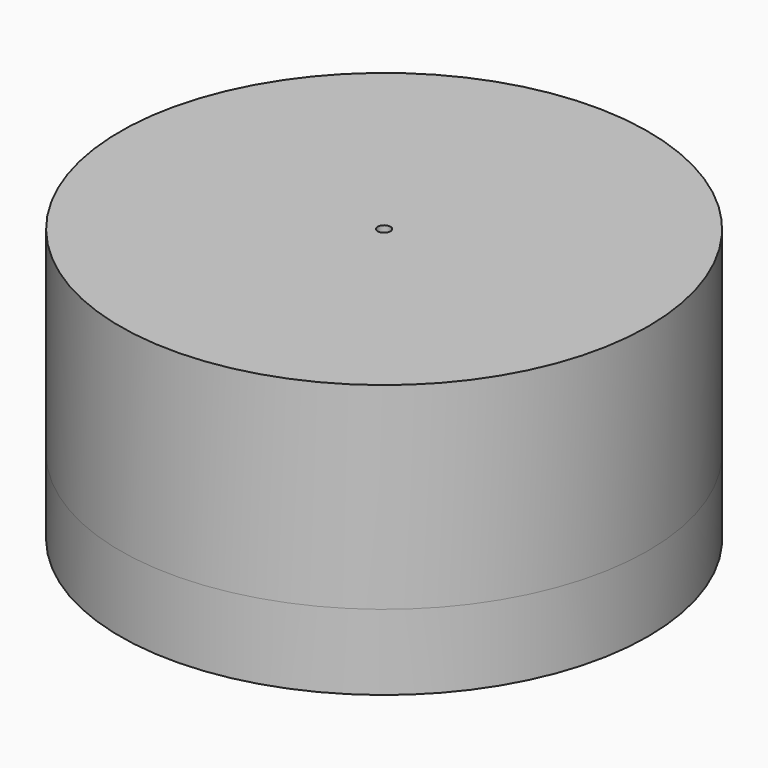
from build123d import *

# Parameters (mm, degrees)
F2_DEPTH = 14
F0_W     = 10
F0_H     = 5


with BuildPart() as f1:
    # F0 (on Front) → F1 (revolve)
    with BuildSketch(Plane.XZ):
        with BuildLine():
            Line((0, 40.6699131573), (0, 33.1678688383))
            ThreePointArc((0, 33.1678688383), (2.6523732054, 34.2665177924), (3.7510221595, 36.9188909978))
            ThreePointArc((3.7510221595, 36.9188909978), (2.6523732054, 39.5712642031), (0, 40.6699131573))
        make_face()
        with BuildLine():
            Line((0, 33.1678688383), (0, 30))
            Line((0, 30), (10, 30))
            Line((10, 30), (13, 13.8075612485))
            Line((13, 13.8075612485), (14, 13.8075612485))
            Line((14, 13.8075612485), (14, 43.8377819955))
            Line((14, 43.8377819955), (0, 43.8377819955))
            Line((0, 43.8377819955), (0, 40.6699131573))
            ThreePointArc((0, 40.6699131573), (2.6523732054, 39.5712642031), (3.7510221595, 36.9188909978))
            ThreePointArc((3.7510221595, 36.9188909978), (2.6523732054, 34.2665177924), (0, 33.1678688383))
        make_face()
    revolve(axis=Axis((0, 0, 15), (0, 0, 1)))

    # F0 (on Front) → F2 (cut, symmetric)
    with BuildSketch(Plane.XZ):
        with BuildLine():
            ThreePointArc((0, 40.6699131573), (-3.7510221595, 36.9188909978), (0, 33.1678688383))
            Line((0, 33.1678688383), (0, 40.6699131573))
        make_face()
        with BuildLine():
            Line((0, 40.6699131573), (0, 33.1678688383))
            ThreePointArc((0, 33.1678688383), (2.6523732054, 34.2665177924), (3.7510221595, 36.9188909978))
            ThreePointArc((3.7510221595, 36.9188909978), (2.6523732054, 39.5712642031), (0, 40.6699131573))
        make_face()
    extrude(amount=F2_DEPTH, both=True, mode=Mode.SUBTRACT)


with BuildPart() as f3:
    # F0 (on Front) → F3 (revolve)
    with BuildSketch(Plane.XZ):
        with BuildLine():
            ThreePointArc((11.4644660941, 0), (13.9644660941, 1.0355339059), (15, 3.5355339059))
            ThreePointArc((15, 3.5355339059), (8.9644660941, 6.0355339059), (11.4644660941, 0))
        make_face()
    revolve(axis=Axis((0, 0, 15), (0, 0, 1)))


with BuildPart() as f4:
    # F0 (on Front) → F4 (revolve)
    with BuildSketch(Plane.XZ):
        with BuildLine():
            Line((10, 30), (0, 30))
            Line((0, 30), (0, 25))
            Line((0, 25), (7.5, 25))
            ThreePointArc((7.5, 25), (9.267766953, 25.732233047), (10, 27.5))
            Line((10, 27.5), (10, 30))
        make_face()
    revolve(axis=Axis((0, 0, 15), (0, 0, 1)))


with BuildPart() as f5:
    # F0 (on Front) → F5 (revolve)
    with BuildSketch(Plane.XZ):
        Polygon((15, 7.1290568449), (15, 3.5355339059), (15, 0), (70, 0), (70, 52.3596480489), (1.6814888222, 52.3596480489), (1.6814888222, 46.0751764476), (15, 46.0751764476), (15, 12.1290568449), align=None)
        with Locations((10, 9.6290568449)):
            Rectangle(F0_W, F0_H)
    revolve(axis=Axis((0, 0, 15), (0, 0, 1)))


with BuildPart() as f6:
    # F0 (on Front) → F6 (revolve)
    with BuildSketch(Plane.XZ):
        Polygon((15, 0), (11.4644660941, 0), (0, 0), (0, -20), (70, -20), (70, 0), align=None)
    revolve(axis=Axis((0, 0, 15), (0, 0, 1)))


solid = Compound([f1.part, f3.part, f4.part, f5.part, f6.part])
